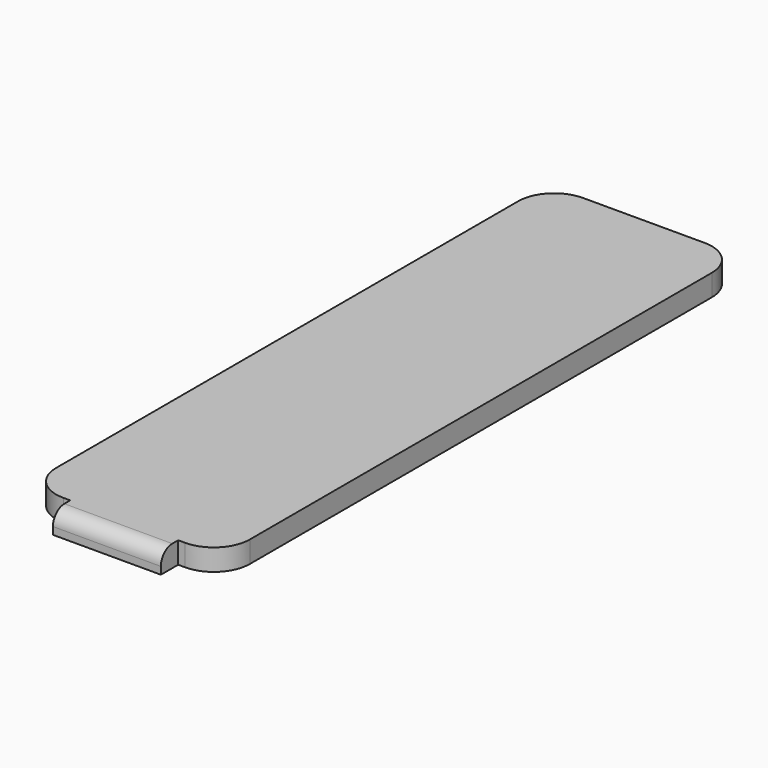
from build123d import *

# Parameters (mm, degrees)
F2_DEPTH = 3.6
F4_DEPTH = 3.6
F5_W     = 20.3048
F5_H     = 1.8
F6_DEPTH = 1.8
F7_R     = 2.376
F8_R     = 0.5


with BuildPart() as f2:
    # F1 (on Top) → F2 (new body)
    with BuildSketch(Plane.XY):
        with BuildLine():
            Line((-10.1524, -54.15), (10.1524, -54.15))
            ThreePointArc((10.1524, -54.15), (14.3933436308, -52.3933436308), (16.15, -48.1524))
            Line((16.15, -48.1524), (16.15, 48.1524))
            ThreePointArc((16.15, 48.1524), (14.3933436308, 52.3933436308), (10.1524, 54.15))
            Line((10.1524, 54.15), (-10.1524, 54.15))
            ThreePointArc((-10.1524, 54.15), (-14.3933436308, 52.3933436308), (-16.15, 48.1524))
            Line((-16.15, 48.1524), (-16.15, -48.1524))
            ThreePointArc((-16.15, -48.1524), (-14.3933436308, -52.3933436308), (-10.1524, -54.15))
        make_face()
    extrude(amount=F2_DEPTH)

    # F3 (on face) → F4 (join)
    with BuildSketch(Plane.XZ.offset(54.15)):
        Polygon((9, 3.6), (-9, 3.6), (-9, 1.8), (-9, 0), (9, 0), (9, 1.8), align=None)
    extrude(amount=F4_DEPTH)

    # F5 (on face) → F6 (join)
    with BuildSketch(Plane(origin=(0, 54.15, 0), x_dir=(-1, 0, 0), z_dir=(0, 1, 0))):
        with Locations((0, 0.9)):
            Rectangle(F5_W, F5_H)
    extrude(amount=F6_DEPTH)

    # F7
    f7_edges = [f2.edges().sort_by_distance(p)[0] for p in [
        (0, -57.75, 3.6),
    ]]
    fillet(f7_edges, radius=F7_R)

    # F8
    f8_edges = [f2.edges().sort_by_distance(p)[0] for p in [
        (0, 55.95, 1.8),
    ]]
    fillet(f8_edges, radius=F8_R)


solid = f2.part
